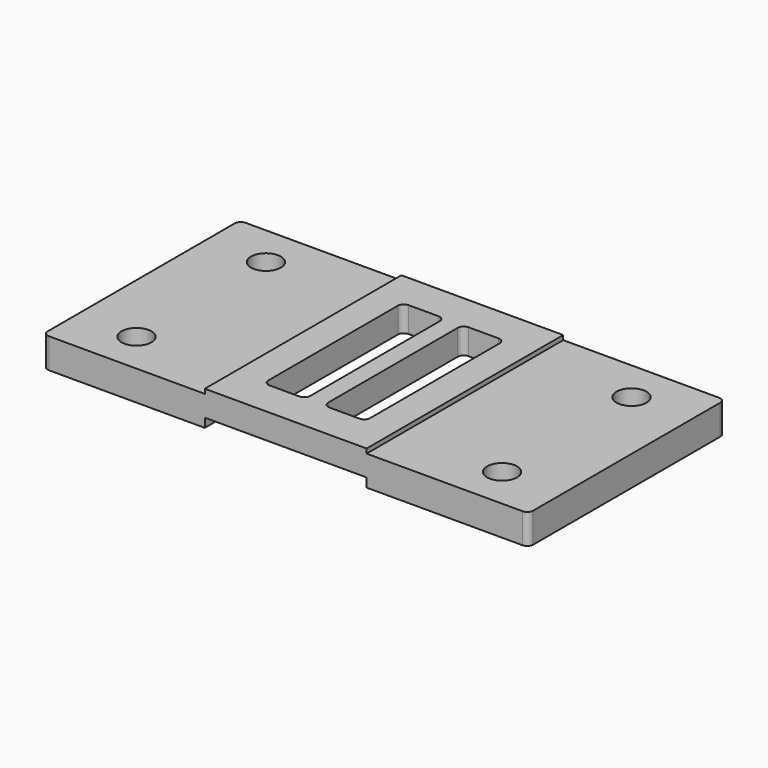
from build123d import *

# Parameters (mm, degrees)
F0_W     = 1371.6
F0_H     = 2082.8
F1_DEPTH = 165.1
F0_R     = 127
F2_DEPTH = 127
F3_W     = 1371.6
F3_H     = 114.3
F4_DEPTH = 2202.18


with BuildPart() as f1:
    # F0 (on Top) → F1 (new body, symmetric)
    with BuildSketch(Plane.XY):
        Rectangle(F0_W, F0_H)
        with BuildLine():
            ThreePointArc((-431.8, 685.8), (-416.921024, 721.721024), (-381, 736.6))
            Line((-381, 736.6), (-127, 736.6))
            ThreePointArc((-127, 736.6), (-91.078976, 721.721024), (-76.2, 685.8))
            Line((-76.2, 685.8), (-76.2, -685.8))
            ThreePointArc((-76.2, -685.8), (-91.078976, -721.721024), (-127, -736.6))
            Line((-127, -736.6), (-381, -736.6))
            ThreePointArc((-381, -736.6), (-416.921024, -721.721024), (-431.8, -685.8))
            Line((-431.8, -685.8), (-431.8, 685.8))
        make_face(mode=Mode.SUBTRACT)
        with BuildLine():
            Line((127, 736.6), (381, 736.6))
            ThreePointArc((381, 736.6), (416.921024, 721.721024), (431.8, 685.8))
            Line((431.8, 685.8), (431.8, -685.8))
            ThreePointArc((431.8, -685.8), (416.921024, -721.721024), (381, -736.6))
            Line((381, -736.6), (127, -736.6))
            ThreePointArc((127, -736.6), (91.078976, -721.721024), (76.2, -685.8))
            Line((76.2, -685.8), (76.2, 685.8))
            ThreePointArc((76.2, 685.8), (91.078976, 721.721024), (127, 736.6))
        make_face(mode=Mode.SUBTRACT)
    extrude(amount=F1_DEPTH, both=True)

    # F0 (on Top) → F2 (join, symmetric)
    with BuildSketch(Plane.XY):
        with BuildLine():
            ThreePointArc((2057.4, 990.6), (2042.521024, 1026.521024), (2006.6, 1041.4))
            Line((2006.6, 1041.4), (1549.4, 1041.4))
            Line((1549.4, 1041.4), (685.8, 1041.4))
            Line((685.8, 1041.4), (685.8, -1041.4))
            Line((685.8, -1041.4), (1549.4, -1041.4))
            Line((1549.4, -1041.4), (2006.6, -1041.4))
            ThreePointArc((2006.6, -1041.4), (2042.521024, -1026.521024), (2057.4, -990.6))
            Line((2057.4, -990.6), (2057.4, 990.6))
        make_face()
        with Locations((1549.4, -685.8)):
            Circle(F0_R, mode=Mode.SUBTRACT)
        with Locations((1549.4, 685.8)):
            Circle(F0_R, mode=Mode.SUBTRACT)
        Rectangle(F0_W, F0_H)
        with BuildLine():
            ThreePointArc((-431.8, 685.8), (-416.921024, 721.721024), (-381, 736.6))
            Line((-381, 736.6), (-127, 736.6))
            ThreePointArc((-127, 736.6), (-91.078976, 721.721024), (-76.2, 685.8))
            Line((-76.2, 685.8), (-76.2, -685.8))
            ThreePointArc((-76.2, -685.8), (-91.078976, -721.721024), (-127, -736.6))
            Line((-127, -736.6), (-381, -736.6))
            ThreePointArc((-381, -736.6), (-416.921024, -721.721024), (-431.8, -685.8))
            Line((-431.8, -685.8), (-431.8, 685.8))
        make_face(mode=Mode.SUBTRACT)
        with BuildLine():
            Line((127, 736.6), (381, 736.6))
            ThreePointArc((381, 736.6), (416.921024, 721.721024), (431.8, 685.8))
            Line((431.8, 685.8), (431.8, -685.8))
            ThreePointArc((431.8, -685.8), (416.921024, -721.721024), (381, -736.6))
            Line((381, -736.6), (127, -736.6))
            ThreePointArc((127, -736.6), (91.078976, -721.721024), (76.2, -685.8))
            Line((76.2, -685.8), (76.2, 685.8))
            ThreePointArc((76.2, 685.8), (91.078976, 721.721024), (127, 736.6))
        make_face(mode=Mode.SUBTRACT)
        with BuildLine():
            Line((-685.8, -1041.4), (-685.8, 1041.4))
            Line((-685.8, 1041.4), (-1549.4, 1041.4))
            Line((-1549.4, 1041.4), (-2006.6, 1041.4))
            ThreePointArc((-2006.6, 1041.4), (-2032.125279, 1034.521523), (-2050.738154, 1015.748825))
            ThreePointArc((-2050.738154, 1015.748825), (-2055.706304, 1003.608109), (-2057.4, 990.6))
            Line((-2057.4, 990.6), (-2057.4, -990.6))
            ThreePointArc((-2057.4, -990.6), (-2042.521024, -1026.521024), (-2006.6, -1041.4))
            Line((-2006.6, -1041.4), (-1549.408913, -1041.4))
            Line((-1549.408913, -1041.4), (-685.8, -1041.4))
        make_face()
        with Locations((-1549.408913, -685.8)):
            Circle(F0_R, mode=Mode.SUBTRACT)
        with Locations((-1549.4, 685.8)):
            Circle(F0_R, mode=Mode.SUBTRACT)
    extrude(amount=F2_DEPTH, both=True)

    # F3 (on face) → F4 (cut)
    with BuildSketch(Plane.XZ.offset(1041.4)):
        with Locations((0, -107.95)):
            Rectangle(F3_W, F3_H)
    extrude(amount=-F4_DEPTH, mode=Mode.SUBTRACT)


solid = f1.part
